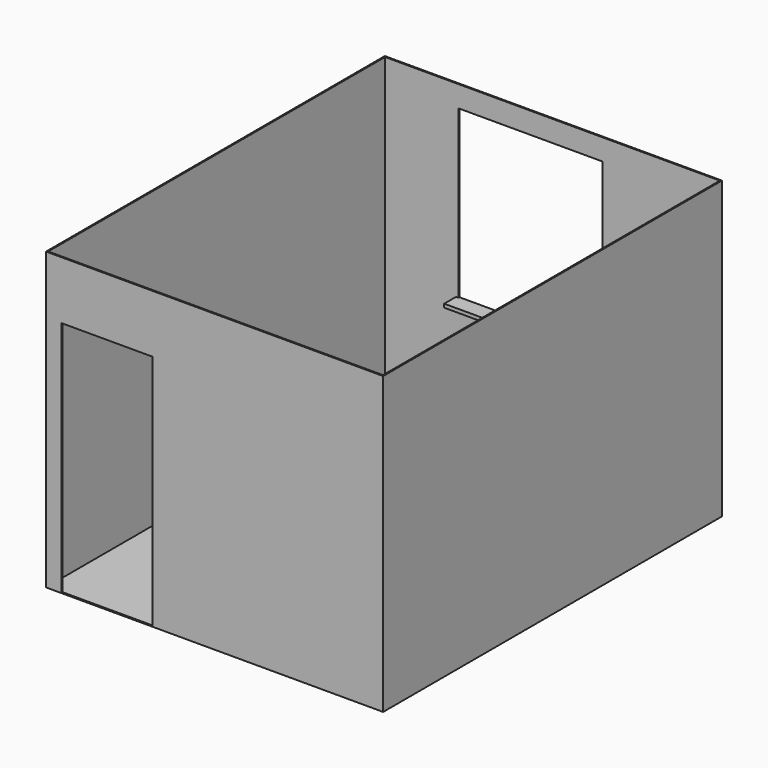
from build123d import *

# Parameters (mm, degrees)
F0_W     = 2850
F0_H     = 3580
F1_DEPTH = 10
F2_W     = 2850
F2_H     = 3580
F2_W_2   = 2830
F2_H_2   = 3560
F3_DEPTH = 2500
F4_W     = 770
F4_H     = 2000
F5_DEPTH = 10
F6_W     = 1220
F6_H     = 1410
F7_DEPTH = 10
F8_W     = 1260
F8_H     = 30
F9_DEPTH = 125


with BuildPart() as f1:
    # F0 (on Top) → F1 (new body)
    with BuildSketch(Plane.XY):
        Rectangle(F0_W, F0_H)
    extrude(amount=F1_DEPTH)

    # F2 (on face) → F3 (join)
    with BuildSketch(Plane.XY):
        Rectangle(F2_W, F2_H)
        Rectangle(F2_W_2, F2_H_2, mode=Mode.SUBTRACT)
    extrude(amount=F3_DEPTH)

    # F4 (on face) → F5 (cut, through all)
    with BuildSketch(Plane.XZ.offset(1790)):
        with Locations((-910, 1010)):
            Rectangle(F4_W, F4_H)
    extrude(amount=-F5_DEPTH, mode=Mode.SUBTRACT)

    # F6 (on face) → F7 (cut, through all)
    with BuildSketch(Plane(origin=(0, 1790, 0), x_dir=(-1, 0, 0), z_dir=(0, 1, 0))):
        with Locations((185, 1615)):
            Rectangle(F6_W, F6_H)
    extrude(amount=-F7_DEPTH, mode=Mode.SUBTRACT)

    # F8 (on face) → F9 (join)
    with BuildSketch(Plane.XZ.offset(-1780)):
        with Locations((-185, 895)):
            Rectangle(F8_W, F8_H)
    extrude(amount=F9_DEPTH)


solid = f1.part
